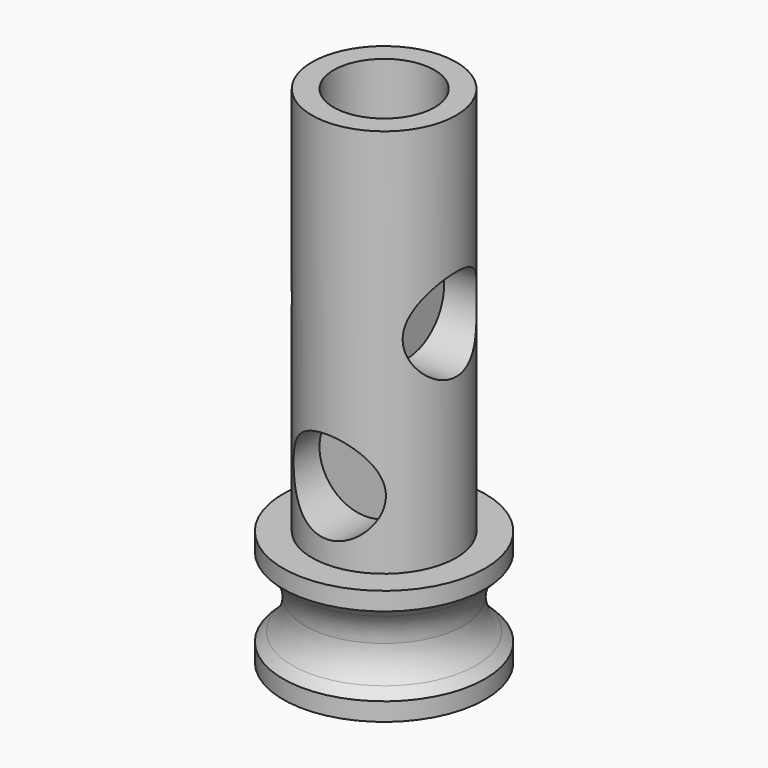
from build123d import *

# Parameters (mm, degrees)
SKETCH_R        = 5
PAD_DEPTH       = 35
SKETCH019_R     = 3.5
POCKET007_DEPTH = 8
SKETCH066_R     = 3.2
POCKET_DEPTH    = 3.4
SKETCH067_R     = 3.2
POCKET025_DEPTH = 3.4
SKETCH068_R     = 3.2
POCKET026_DEPTH = 3.4
SKETCH069_R     = 3.2
POCKET027_DEPTH = 3.4


with BuildPart() as part:
    # Sketch → Pad (new body)
    with BuildSketch(Plane.XY):
        Circle(SKETCH_R)
    extrude(amount=PAD_DEPTH)

    # Sketch019 → Pocket007 (cut)
    with BuildSketch(Plane.XY.offset(35)):
        Circle(SKETCH019_R)
    extrude(amount=-POCKET007_DEPTH, mode=Mode.SUBTRACT)

    # Sketch034 → Revolution (revolve)
    with BuildSketch(Plane.XZ):
        with BuildLine():
            ThreePointArc((6.37868, 6.121321), (5.728361, 5.148051), (5.5, 4))
            ThreePointArc((5.5, 4), (5.728361, 2.851949), (6.37868, 1.878679))
            Line((6.37868, 1.878679), (7, 1.25736))
            Line((7, 0), (7, 1.25736))
            Line((0, 0), (7, 0))
            Line((0, 8), (0, 0))
            Line((7, 8), (0, 8))
            Line((7, 6.74264), (7, 8))
            Line((6.37868, 6.121321), (7, 6.74264))
        make_face()
    revolve(axis=Axis((0, 0, 0), (0, 0, 1)))

    # Sketch066 (on DatumPlane) → Pocket (cut)
    with BuildSketch(Plane(origin=(5, 0, 35), x_dir=(0, 1, 0), z_dir=(1, 0, 0))):
        with Locations((0, -12.75)):
            Circle(SKETCH066_R)
    extrude(amount=-POCKET_DEPTH, mode=Mode.SUBTRACT)

    # Sketch067 (on DatumPlane) → Pocket025 (cut)
    with BuildSketch(Plane(origin=(0, 5, 35), x_dir=(-1, 0, 0), z_dir=(0, 1, 0))):
        with Locations((0, -22.25)):
            Circle(SKETCH067_R)
    extrude(amount=-POCKET025_DEPTH, mode=Mode.SUBTRACT)

    # Sketch068 (on DatumPlane) → Pocket026 (cut)
    with BuildSketch(Plane(origin=(-5, 0, 35), x_dir=(0, -1, 0), z_dir=(-1, 0, 0))):
        with Locations((0, -12.75)):
            Circle(SKETCH068_R)
    extrude(amount=-POCKET026_DEPTH, mode=Mode.SUBTRACT)

    # Sketch069 (on DatumPlane) → Pocket027 (cut)
    with BuildSketch(Plane(origin=(0, -5, 35), x_dir=(1, 0, 0), z_dir=(0, -1, 0))):
        with Locations((0, -22.25)):
            Circle(SKETCH069_R)
    extrude(amount=-POCKET027_DEPTH, mode=Mode.SUBTRACT)


solid = part.part
